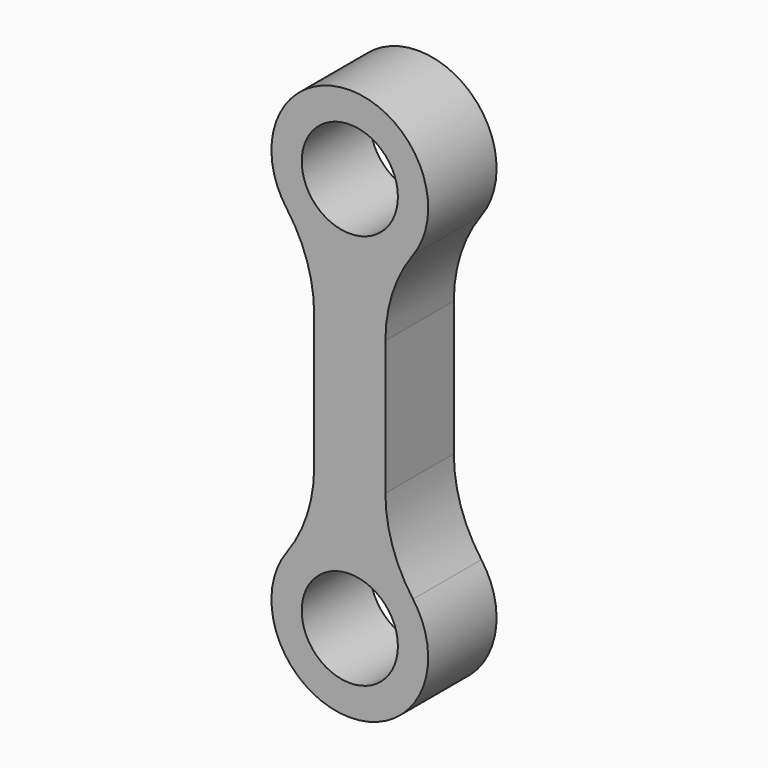
from build123d import *

# Parameters (mm, degrees)
F0_R     = 1.6875
F1_DEPTH = 3
F2_R     = 5


with BuildPart() as f1:
    # F0 (on Front) → F1 (new body)
    with BuildSketch(Plane.XZ):
        with BuildLine():
            Line((-1.25, 11.433086), (-1.25, 2.44949))
            ThreePointArc((-1.25, 2.44949), (0, -2.75), (1.25, 2.44949))
            Line((1.25, 2.44949), (1.25, 11.433086))
            ThreePointArc((1.25, 11.433086), (0, 16.632576), (-1.25, 11.433086))
        make_face()
        Circle(F0_R, mode=Mode.SUBTRACT)
        with Locations((0, 13.882576)):
            Circle(F0_R, mode=Mode.SUBTRACT)
    extrude(amount=F1_DEPTH)

    # F2
    f2_edges = [f1.edges().sort_by_distance(p)[0] for p in [
        (1.25, -1.5, 2.44949),
        (-1.25, -1.5, 2.44949),
        (-1.25, -1.5, 11.433086),
        (1.25, -1.5, 11.433086),
    ]]
    fillet(f2_edges, radius=F2_R)


solid = f1.part
